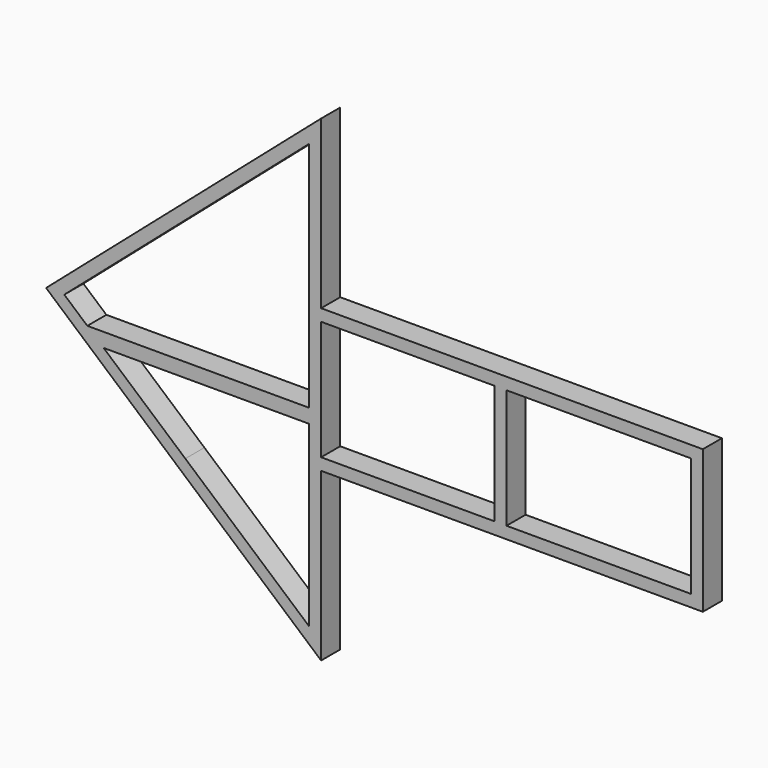
from build123d import *

# Parameters (mm, degrees)
F0_W     = 363.556385
F0_H     = 250
F0_W_2   = 386.443615
F1_DEPTH = 50


with BuildPart() as f1:
    # F0 (on Front) → F1 (new body)
    with BuildSketch(Plane.XZ):
        Polygon((0, 150), (0, 500), (-576.39432, 0), (0, -500), (0, -150), (800, -150), (800, 150), align=None)
        Polygon((-455.829133, -71.490273), (-25, -71.490273), (-25, -420.501658), (-25, -445.218048), (-284.563661, -220.056511), align=None, mode=Mode.SUBTRACT)
        Polygon((-25, 445.218048), (-25, -41.858591), (-455.829133, -41.858591), (-489.988199, -41.858591), (-538.242307, 0), align=None, mode=Mode.SUBTRACT)
        with Locations((181.778192, 0)):
            Rectangle(F0_W, F0_H, mode=Mode.SUBTRACT)
        with Locations((581.778192, 0)):
            Rectangle(F0_W_2, F0_H, mode=Mode.SUBTRACT)
    extrude(amount=F1_DEPTH)


solid = f1.part
